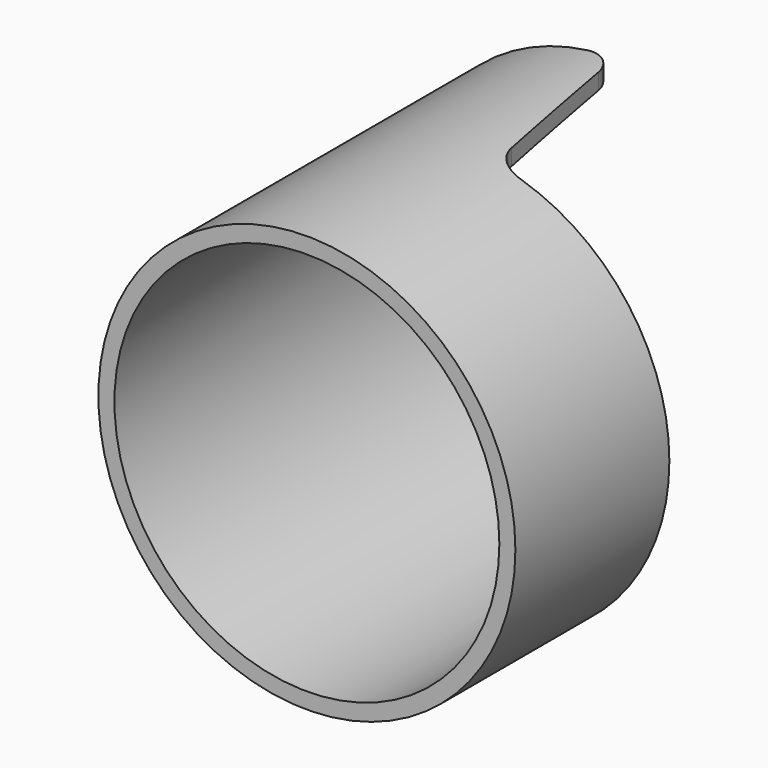
from build123d import *

# Parameters (mm, degrees)
F0_R          = 82.55
F0_R_2        = 76.2
F1_DEPTH      = 152.4
F3_DEPTH      = 82.551
F3_DEPTH_BACK = 82.551


with BuildPart() as f1:
    # F0 (on Front) → F1 (new body)
    with BuildSketch(Plane.XZ):
        Circle(F0_R)
        Circle(F0_R_2, mode=Mode.SUBTRACT)
    extrude(amount=F1_DEPTH)

    # F2 (on Top) → F3 (cut, two sides)
    with BuildSketch(Plane.XY) as f3_sk:
        with BuildLine():
            ThreePointArc((-10.656565316, 0), (-2.4931626729, -2.9712355724), (1.8504931473, -10.4946681436))
            Line((1.8504931473, -10.4946681436), (11.5856227827, -65.7053318564))
            ThreePointArc((11.5856227827, -65.7053318564), (15.9292786029, -73.2287644276), (24.0926812459, -76.2))
            Line((24.0926812459, -76.2), (82.55, -76.2))
            Line((82.55, -76.2), (82.55, 0))
            Line((82.55, 0), (-10.656565316, 0))
        make_face()
    extrude(amount=-F3_DEPTH, mode=Mode.SUBTRACT)
    extrude(f3_sk.sketch, amount=F3_DEPTH_BACK, mode=Mode.SUBTRACT)


solid = f1.part
